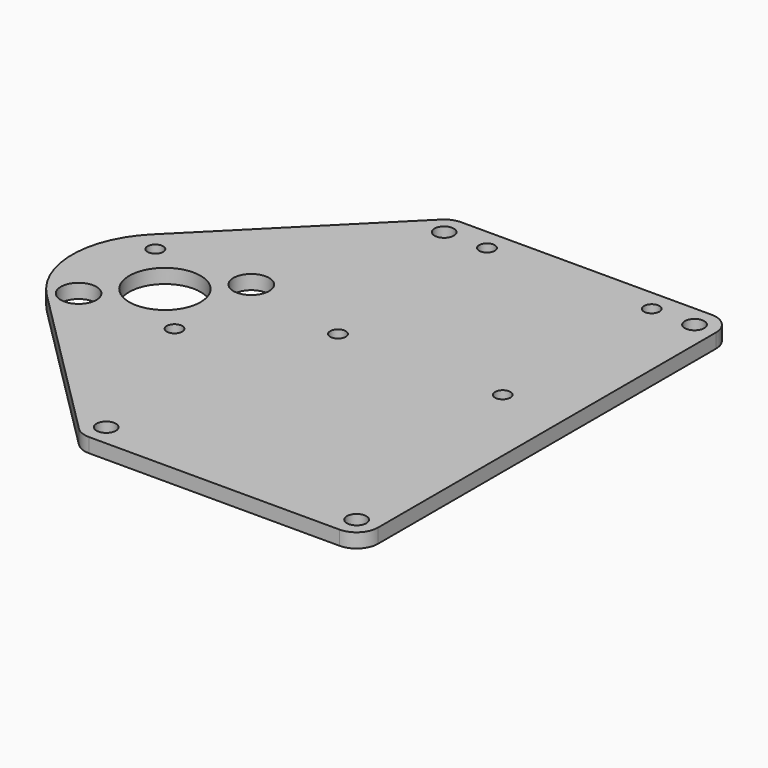
from build123d import *

# Parameters (mm, degrees)
F0_R     = 2.15265
F0_R_2   = 3.96875
F0_R_3   = 7.9375
F0_R_4   = 1.7272
F1_DEPTH = 3.175
F2_R     = 4.7625


with BuildPart() as f1:
    # F0 (on Top) → F1 (new body)
    with BuildSketch(Plane.XY):
        with BuildLine():
            Line((21.145805, 50.331637), (-14.592916, 14.592916))
            ThreePointArc((-14.592916, 14.592916), (-20.6375, 0), (-14.592916, -14.592916))
            Line((-14.592916, -14.592916), (21.145805, -50.331637))
            ThreePointArc((21.145805, -50.331637), (22.690871, -51.364017), (24.513401, -51.726541))
            Line((24.513401, -51.726541), (84.952904, -51.726541))
            Line((84.952904, -51.726541), (84.952904, 51.726541))
            Line((84.952904, 51.726541), (24.513401, 51.726541))
            ThreePointArc((24.513401, 51.726541), (22.690871, 51.364017), (21.145805, 50.331637))
        make_face()
        with Locations((24.513401, -46.964041)):
            Circle(F0_R, mode=Mode.SUBTRACT)
        with Locations((-10.664054, -10.664054)):
            Circle(F0_R_2, mode=Mode.SUBTRACT)
        Circle(F0_R_3, mode=Mode.SUBTRACT)
        with Locations((10.664054, -10.664054)):
            Circle(F0_R_4, mode=Mode.SUBTRACT)
        with Locations((80.190404, -46.964041)):
            Circle(F0_R, mode=Mode.SUBTRACT)
        with Locations((-10.664054, 10.664054)):
            Circle(F0_R_4, mode=Mode.SUBTRACT)
        with Locations((10.664054, 10.664054)):
            Circle(F0_R_2, mode=Mode.SUBTRACT)
        with Locations((24.513401, 46.964041)):
            Circle(F0_R, mode=Mode.SUBTRACT)
        with Locations((34.038401, 5.55625)):
            Circle(F0_R_4, mode=Mode.SUBTRACT)
        with Locations((70.665404, 5.55625)):
            Circle(F0_R_4, mode=Mode.SUBTRACT)
        with Locations((34.038401, 46.964041)):
            Circle(F0_R_4, mode=Mode.SUBTRACT)
        with Locations((70.665404, 46.964041)):
            Circle(F0_R_4, mode=Mode.SUBTRACT)
        with Locations((80.190404, 46.964041)):
            Circle(F0_R, mode=Mode.SUBTRACT)
    extrude(amount=F1_DEPTH)

    # F2
    f2_edges = [f1.edges().sort_by_distance(p)[0] for p in [
        (84.952904, 51.726541, 1.5875),
        (84.952904, -51.726541, 1.5875),
    ]]
    fillet(f2_edges, radius=F2_R)


solid = f1.part
